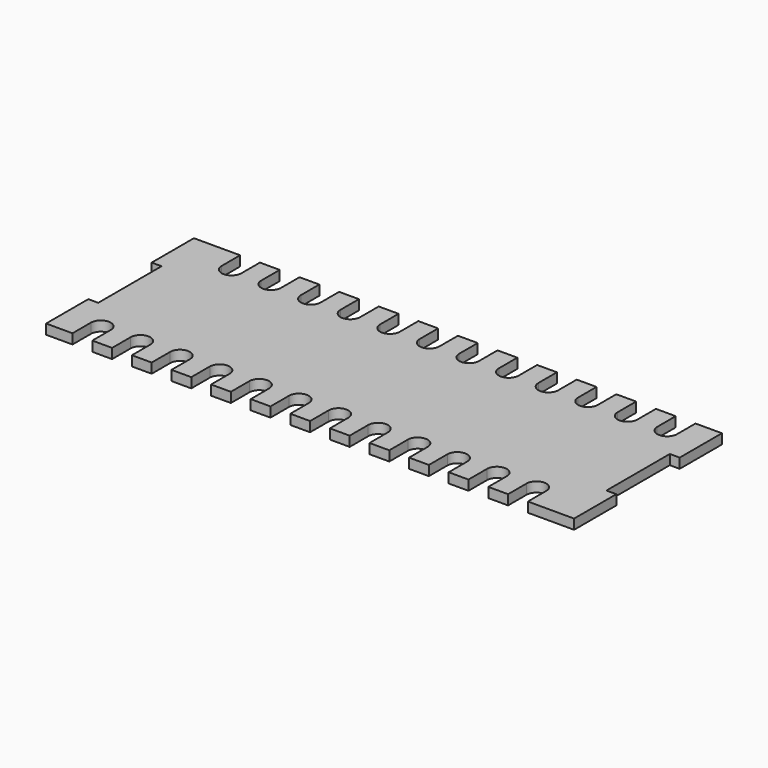
from build123d import *

# Parameters (mm, degrees)
F0_W     = 1016
F0_H     = 355.6
F1_DEPTH = 19.05
F3_DEPTH = 19.051
F5_DEPTH = 19.051
F6_W     = 6.35
F6_H     = 152.4
F7_DEPTH = 19.051


with BuildPart() as f1:
    # F0 (on Top) → F1 (new body)
    with BuildSketch(Plane.XY):
        with Locations((-22.724911, -38.823086)):
            Rectangle(F0_W, F0_H)
    extrude(amount=F1_DEPTH)

    # F2 (on face) → F3 (cut, through all)
    with BuildSketch(Plane.XY.offset(19.05)):
        with BuildLine():
            Line((-403.724911, 138.976914), (-441.824911, 138.976914))
            Line((-441.824911, 138.976914), (-441.824911, 94.526914))
            ThreePointArc((-441.824911, 94.526914), (-422.774911, 75.476914), (-403.724911, 94.526914))
            Line((-403.724911, 94.526914), (-403.724911, 138.976914))
        make_face()
        with BuildLine():
            Line((-441.824911, -216.623086), (-441.824911, -172.173086))
            ThreePointArc((-441.824911, -172.173086), (-460.874911, -153.123086), (-479.924911, -172.173086))
            Line((-479.924911, -172.173086), (-479.924911, -216.623086))
            Line((-479.924911, -216.623086), (-441.824911, -216.623086))
        make_face()
        with BuildLine():
            Line((-327.524911, 138.976914), (-365.624911, 138.976914))
            Line((-365.624911, 138.976914), (-365.624911, 94.526914))
            ThreePointArc((-365.624911, 94.526914), (-346.574911, 75.476914), (-327.524911, 94.526914))
            Line((-327.524911, 94.526914), (-327.524911, 138.976914))
        make_face()
        with BuildLine():
            Line((-365.624911, -216.623086), (-365.624911, -172.173086))
            ThreePointArc((-365.624911, -172.173086), (-384.674911, -153.123086), (-403.724911, -172.173086))
            Line((-403.724911, -172.173086), (-403.724911, -216.623086))
            Line((-403.724911, -216.623086), (-365.624911, -216.623086))
        make_face()
        with BuildLine():
            Line((-251.324911, 138.976914), (-289.424911, 138.976914))
            Line((-289.424911, 138.976914), (-289.424911, 94.526914))
            ThreePointArc((-289.424911, 94.526914), (-270.374911, 75.476914), (-251.324911, 94.526914))
            Line((-251.324911, 94.526914), (-251.324911, 138.976914))
        make_face()
        with BuildLine():
            Line((-289.424911, -216.623086), (-289.424911, -172.173086))
            ThreePointArc((-289.424911, -172.173086), (-308.474911, -153.123086), (-327.524911, -172.173086))
            Line((-327.524911, -172.173086), (-327.524911, -216.623086))
            Line((-327.524911, -216.623086), (-289.424911, -216.623086))
        make_face()
        with BuildLine():
            Line((-175.124911, 138.976914), (-213.224911, 138.976914))
            Line((-213.224911, 138.976914), (-213.224911, 94.526914))
            ThreePointArc((-213.224911, 94.526914), (-194.174911, 75.476914), (-175.124911, 94.526914))
            Line((-175.124911, 94.526914), (-175.124911, 138.976914))
        make_face()
        with BuildLine():
            Line((-213.224911, -216.623086), (-213.224911, -172.173086))
            ThreePointArc((-213.224911, -172.173086), (-232.274911, -153.123086), (-251.324911, -172.173086))
            Line((-251.324911, -172.173086), (-251.324911, -216.623086))
            Line((-251.324911, -216.623086), (-213.224911, -216.623086))
        make_face()
        with BuildLine():
            Line((-98.924911, 138.976914), (-137.024911, 138.976914))
            Line((-137.024911, 138.976914), (-137.024911, 94.526914))
            ThreePointArc((-137.024911, 94.526914), (-117.974911, 75.476914), (-98.924911, 94.526914))
            Line((-98.924911, 94.526914), (-98.924911, 138.976914))
        make_face()
        with BuildLine():
            Line((-137.024911, -216.623086), (-137.024911, -172.173086))
            ThreePointArc((-137.024911, -172.173086), (-156.074911, -153.123086), (-175.124911, -172.173086))
            Line((-175.124911, -172.173086), (-175.124911, -216.623086))
            Line((-175.124911, -216.623086), (-137.024911, -216.623086))
        make_face()
        with BuildLine():
            Line((-22.724911, 138.976914), (-60.824911, 138.976914))
            Line((-60.824911, 138.976914), (-60.824911, 94.526914))
            ThreePointArc((-60.824911, 94.526914), (-41.774911, 75.476914), (-22.724911, 94.526914))
            Line((-22.724911, 94.526914), (-22.724911, 138.976914))
        make_face()
        with BuildLine():
            Line((-60.824911, -216.623086), (-60.824911, -172.173086))
            ThreePointArc((-60.824911, -172.173086), (-79.874911, -153.123086), (-98.924911, -172.173086))
            Line((-98.924911, -172.173086), (-98.924911, -216.623086))
            Line((-98.924911, -216.623086), (-60.824911, -216.623086))
        make_face()
        with BuildLine():
            Line((53.475089, 138.976914), (15.375089, 138.976914))
            Line((15.375089, 138.976914), (15.375089, 94.526914))
            ThreePointArc((15.375089, 94.526914), (34.425089, 75.476914), (53.475089, 94.526914))
            Line((53.475089, 94.526914), (53.475089, 138.976914))
        make_face()
        with BuildLine():
            Line((15.375089, -216.623086), (15.375089, -172.173086))
            ThreePointArc((15.375089, -172.173086), (-3.674911, -153.123086), (-22.724911, -172.173086))
            Line((-22.724911, -172.173086), (-22.724911, -216.623086))
            Line((-22.724911, -216.623086), (15.375089, -216.623086))
        make_face()
        with BuildLine():
            Line((129.675089, 138.976914), (91.575089, 138.976914))
            Line((91.575089, 138.976914), (91.575089, 94.526914))
            ThreePointArc((91.575089, 94.526914), (110.625089, 75.476914), (129.675089, 94.526914))
            Line((129.675089, 94.526914), (129.675089, 138.976914))
        make_face()
        with BuildLine():
            Line((91.575089, -216.623086), (91.575089, -172.173086))
            ThreePointArc((91.575089, -172.173086), (72.525089, -153.123086), (53.475089, -172.173086))
            Line((53.475089, -172.173086), (53.475089, -216.623086))
            Line((53.475089, -216.623086), (91.575089, -216.623086))
        make_face()
        with BuildLine():
            Line((205.875089, 138.976914), (167.775089, 138.976914))
            Line((167.775089, 138.976914), (167.775089, 94.526914))
            ThreePointArc((167.775089, 94.526914), (186.825089, 75.476914), (205.875089, 94.526914))
            Line((205.875089, 94.526914), (205.875089, 138.976914))
        make_face()
        with BuildLine():
            Line((167.775089, -216.623086), (167.775089, -172.173086))
            ThreePointArc((167.775089, -172.173086), (148.725089, -153.123086), (129.675089, -172.173086))
            Line((129.675089, -172.173086), (129.675089, -216.623086))
            Line((129.675089, -216.623086), (167.775089, -216.623086))
        make_face()
        with BuildLine():
            Line((282.075089, 94.526914), (282.075089, 138.976914))
            Line((282.075089, 138.976914), (243.975089, 138.976914))
            Line((243.975089, 138.976914), (243.975089, 94.526914))
            ThreePointArc((243.975089, 94.526914), (263.025089, 75.476914), (282.075089, 94.526914))
        make_face()
        with BuildLine():
            Line((243.975089, -216.623086), (243.975089, -172.173086))
            ThreePointArc((243.975089, -172.173086), (224.925089, -153.123086), (205.875089, -172.173086))
            Line((205.875089, -172.173086), (205.875089, -216.623086))
            Line((205.875089, -216.623086), (243.975089, -216.623086))
        make_face()
        with BuildLine():
            Line((358.275089, 94.526914), (358.275089, 138.976914))
            Line((358.275089, 138.976914), (320.175089, 138.976914))
            Line((320.175089, 138.976914), (320.175089, 94.526914))
            ThreePointArc((320.175089, 94.526914), (339.225089, 75.476914), (358.275089, 94.526914))
        make_face()
        with BuildLine():
            Line((320.175089, -216.623086), (320.175089, -172.173086))
            ThreePointArc((320.175089, -172.173086), (301.125089, -153.123086), (282.075089, -172.173086))
            Line((282.075089, -172.173086), (282.075089, -216.623086))
            Line((282.075089, -216.623086), (320.175089, -216.623086))
        make_face()
        with BuildLine():
            Line((434.475089, 94.526914), (434.475089, 138.976914))
            Line((434.475089, 138.976914), (396.375089, 138.976914))
            Line((396.375089, 138.976914), (396.375089, 94.526914))
            ThreePointArc((396.375089, 94.526914), (415.425089, 75.476914), (434.475089, 94.526914))
        make_face()
        with BuildLine():
            Line((396.375089, -216.623086), (396.375089, -172.173086))
            ThreePointArc((396.375089, -172.173086), (377.325089, -153.123086), (358.275089, -172.173086))
            Line((358.275089, -172.173086), (358.275089, -216.623086))
            Line((358.275089, -216.623086), (396.375089, -216.623086))
        make_face()
    extrude(amount=-F3_DEPTH, mode=Mode.SUBTRACT)

    # F4 (on face) → F5 (cut, through all)
    with BuildSketch(Plane.XY.offset(19.05)):
        Polygon((-518.024911, -115.023086), (-518.024911, -38.823086), (-518.024911, 37.376914), (-530.724911, 37.376914), (-530.724911, -38.823086), (-530.724911, -115.023086), align=None)
        Polygon((485.275089, 37.376914), (472.575089, 37.376914), (472.575089, -38.823086), (472.575089, -115.023086), (485.275089, -115.023086), (485.275089, -38.823086), align=None)
    extrude(amount=-F5_DEPTH, mode=Mode.SUBTRACT)

    # F6 (on face) → F7 (cut, through all)
    with BuildSketch(Plane.XY.offset(19.05)):
        with Locations((-514.849911, -38.823086)):
            Rectangle(F6_W, F6_H)
        with Locations((469.400089, -38.823086)):
            Rectangle(F6_W, F6_H)
    extrude(amount=-F7_DEPTH, mode=Mode.SUBTRACT)


solid = f1.part
